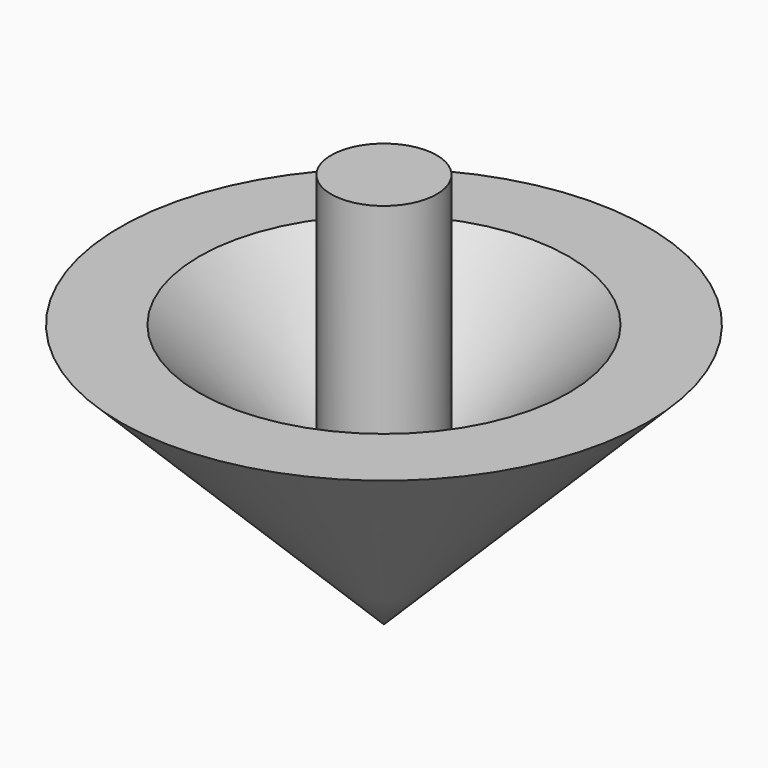
from build123d import *

# Parameters (mm, degrees)
F4_R          = 2
F5_DEPTH      = 5
F5_DEPTH_BACK = 8


with BuildPart() as f1:
    # F0 (on Front) → F1 (revolve)
    with BuildSketch(Plane.XZ):
        Polygon((0, 10), (0, 0), (10, 10), align=None)
    revolve(axis=Axis((0, 0, 5), (0, 0, -1)))

    # F2 (on Front) → F3 (revolve, cut)
    with BuildSketch(Plane.XZ):
        Polygon((7, 10), (0, 10), (0, 3), align=None)
    revolve(axis=Axis((0, 0, 6.5), (0, 0, -1)), mode=Mode.SUBTRACT)

    # F4 (on face) → F5 (join, two sides)
    with BuildSketch(Plane.XY.offset(10)) as f5_sk:
        Circle(F4_R)
    extrude(amount=F5_DEPTH)
    extrude(f5_sk.sketch, amount=-F5_DEPTH_BACK)


solid = f1.part
